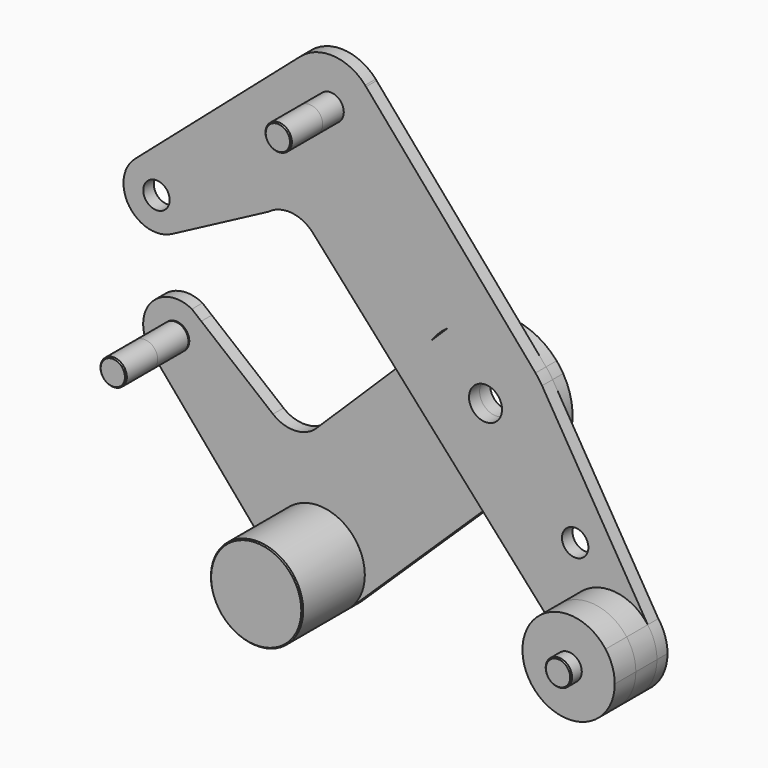
from build123d import *

# Parameters (mm, degrees)
F0_R     = 3.175
F0_R_2   = 3.9751
F2_DEPTH = 3.175
F3_DEPTH = 3.175
F4_DEPTH = 9.525
F6_SIZE  = 0.254


with BuildPart() as f2:
    # F0 (on Front) → F2 (new body)
    with BuildSketch(Plane.XZ):
        with BuildLine():
            ThreePointArc((-2.5106246191, 55.7574200842), (-18.2288215062, 45.6442992783), (-20.9178619526, 64.1404066335))
            Line((-20.9178619526, 64.1404066335), (-60.7601879257, 29.4702683695))
            ThreePointArc((-60.7601879257, 29.4702683695), (-52.2598777681, 30.7060785528), (-47.6121612589, 23.4824208343))
            ThreePointArc((-47.6121612589, 23.4824208343), (-48.751216127, 19.3854646423), (-51.8414652058, 16.4643592585))
            Line((-51.8414652058, 16.4643592585), (-28.6478088266, 28.7193992168))
            ThreePointArc((-28.6478088266, 28.7193992168), (-23.0655879888, 30.338278653), (-17.873526738, 27.7259118948))
            Line((-17.873526738, 27.7259118948), (1.9079331387, 5.6404648573))
            Line((1.9079331387, 5.6404648573), (10.7353477508, 14.3232909653))
            ThreePointArc((10.7353477508, 14.3232909653), (12.5449977515, 16.4472846117), (14.6985856273, 18.2216130469))
            ThreePointArc((14.6985856273, 18.2216130469), (25.7261792861, 20.8718790141), (35.7079737596, 15.487131045))
            Line((35.7079737596, 15.487131045), (-5.0924202882, 62.8788483026))
            ThreePointArc((-5.0924202882, 62.8788483026), (-3.1759932394, 59.5449129471), (-2.5106246191, 55.7574200842))
        make_face()
        with BuildLine():
            ThreePointArc((-47.6121612589, 23.4824208343), (-52.2598777681, 30.7060785528), (-60.7601879257, 29.4702683695))
            ThreePointArc((-60.7601879257, 29.4702683695), (-62.0958561284, 18.9934076932), (-51.8414652058, 16.4643592585))
            ThreePointArc((-51.8414652058, 16.4643592585), (-48.751216127, 19.3854646423), (-47.6121612589, 23.4824208343))
        make_face()
        with Locations((-55.5496612589, 23.4824208343)):
            Circle(F0_R, mode=Mode.SUBTRACT)
        with BuildLine():
            Line((-5.0924202882, 62.8788483026), (-5.3127557425, 63.1347790551))
            ThreePointArc((-5.3127557425, 63.1347790551), (-12.9084928507, 66.8469177142), (-20.9178619526, 64.1404066335))
            ThreePointArc((-20.9178619526, 64.1404066335), (-18.2288215062, 45.6442992783), (-2.5106246191, 55.7574200842))
            ThreePointArc((-2.5106246191, 55.7574200842), (-3.1759932394, 59.5449129471), (-5.0924202882, 62.8788483026))
        make_face()
        with Locations((-13.6231246191, 55.7574200842)):
            Circle(F0_R, mode=Mode.SUBTRACT)
        with BuildLine():
            ThreePointArc((37.2888219021, 13.2991536525), (36.5449865014, 14.4268033973), (35.7079737596, 15.487131045))
            ThreePointArc((35.7079737596, 15.487131045), (25.7261792861, 20.8718790141), (14.6985856273, 18.2216130469))
            Line((14.6985856273, 18.2216130469), (10.7353477508, 14.3232909653))
            ThreePointArc((10.7353477508, 14.3232909653), (7.8274736068, 4.2350553488), (11.8520761369, -5.4618928498))
            ThreePointArc((11.8520761369, -5.4618928498), (23.1117421056, -10.7352658082), (34.718293483, -6.2769583705))
            ThreePointArc((34.718293483, -6.2769583705), (38.2938852735, -1.0646535641), (39.5522467868, 5.1296586938))
            ThreePointArc((39.5522467868, 5.1296586938), (38.9759294091, 9.3682828836), (37.2888219021, 13.2991536525))
        make_face()
        with Locations((23.6772467868, 5.1296586938)):
            Circle(F0_R_2, mode=Mode.SUBTRACT)
        with BuildLine():
            Line((22.861570702, -17.7536858036), (34.718293483, -6.2769583705))
            ThreePointArc((34.718293483, -6.2769583705), (23.1117421056, -10.7352658082), (11.8520761369, -5.4618928498))
            Line((11.8520761369, -5.4618928498), (12.3431713564, -6.0101869358))
            Line((12.3431713564, -6.0101869358), (22.861570702, -17.7536858036))
        make_face()
        with BuildLine():
            ThreePointArc((11.8520761369, -5.4618928498), (7.8274736068, 4.2350553488), (10.7353477508, 14.3232909653))
            Line((10.7353477508, 14.3232909653), (1.9079331387, 5.6404648573))
            Line((1.9079331387, 5.6404648573), (11.8520761369, -5.4618928498))
        make_face()
        with BuildLine():
            Line((62.7313325952, -29.0917955033), (37.2888219021, 13.2991536525))
            ThreePointArc((37.2888219021, 13.2991536525), (38.9759294091, 9.3682828836), (39.5522467868, 5.1296586938))
            ThreePointArc((39.5522467868, 5.1296586938), (38.2938852735, -1.0646535641), (34.718293483, -6.2769583705))
            Line((34.718293483, -6.2769583705), (22.861570702, -17.7536858036))
            Line((22.861570702, -17.7536858036), (44.9044808209, -42.3639788264))
            ThreePointArc((44.9044808209, -42.3639788264), (47.1985006827, -26.8368729907), (62.7313325952, -29.0917955033))
        make_face()
        with Locations((45.2562570572, -17.3768736422)):
            Circle(F0_R, mode=Mode.SUBTRACT)
        with BuildLine():
            ThreePointArc((64.9471133741, -35.7503271246), (64.3786270453, -32.2415621064), (62.7313325952, -29.0917955033))
            ThreePointArc((62.7313325952, -29.0917955033), (47.1985006827, -26.8368729907), (44.9044808209, -42.3639788264))
            ThreePointArc((44.9044808209, -42.3639788264), (57.3168223176, -46.3031408311), (64.9471133741, -35.7503271246))
        make_face()
        with Locations((53.8346133741, -35.7503271246)):
            Circle(F0_R, mode=Mode.SUBTRACT)
    extrude(amount=F2_DEPTH)


with BuildPart() as f3:
    # F0 (on Front) → F3 (new body)
    with BuildSketch(Plane.XZ):
        with BuildLine():
            ThreePointArc((-45.4204246014, -6.9679266385), (-45.9057292748, -4.2350360326), (-47.3022995151, -1.8363273688))
            Line((-47.3022995151, -1.8363273688), (-49.556358528, 0))
            ThreePointArc((-49.556358528, 0), (-59.6263320396, -2.0985350504), (-59.1691962507, -12.3746842684))
            ThreePointArc((-59.1691962507, -12.3746842684), (-50.4530203401, -14.3547688247), (-45.4204246014, -6.9679266385))
        make_face()
        with Locations((-53.3579246014, -6.9679266385)):
            Circle(F0_R, mode=Mode.SUBTRACT)
        with BuildLine():
            ThreePointArc((-27.2982812561, -49.8464654343), (-19.3510928488, -53.7472997705), (-11.0753700137, -50.6029836833))
            ThreePointArc((-11.0753700137, -50.6029836833), (-8.5938372884, -46.9640376986), (-7.7209494347, -42.6468627726))
            ThreePointArc((-7.7209494347, -42.6468627726), (-22.6689554402, -32.2172630711), (-27.2982812561, -49.8464654343))
        make_face()
        with Locations((-18.8334494347, -42.6468627726)):
            Circle(F0_R, mode=Mode.SUBTRACT)
        with BuildLine():
            Line((12.3431713564, -6.0101869358), (11.8520761369, -5.4618928498))
            Line((11.8520761369, -5.4618928498), (1.9079331387, 5.6404648573))
            Line((1.9079331387, 5.6404648573), (-19.9936484697, -15.9023801261))
            ThreePointArc((-19.9936484697, -15.9023801261), (-25.0150598586, -17.6888874259), (-30.0364712475, -15.9023801261))
            Line((-30.0364712475, -15.9023801261), (-47.3022995151, -1.8363273688))
            ThreePointArc((-47.3022995151, -1.8363273688), (-45.9057292748, -4.2350360326), (-45.4204246014, -6.9679266385))
            ThreePointArc((-45.4204246014, -6.9679266385), (-50.4530203401, -14.3547688247), (-59.1691962507, -12.3746842684))
            Line((-59.1691962507, -12.3746842684), (-27.2982812561, -49.8464654343))
            ThreePointArc((-27.2982812561, -49.8464654343), (-22.6689554402, -32.2172630711), (-7.7209494347, -42.6468627726))
            ThreePointArc((-7.7209494347, -42.6468627726), (-8.5938372884, -46.9640376986), (-11.0753700137, -50.6029836833))
            Line((-11.0753700137, -50.6029836833), (22.861570702, -17.7536858036))
            Line((22.861570702, -17.7536858036), (12.3431713564, -6.0101869358))
        make_face()
        with BuildLine():
            Line((22.861570702, -17.7536858036), (34.718293483, -6.2769583705))
            ThreePointArc((34.718293483, -6.2769583705), (23.1117421056, -10.7352658082), (11.8520761369, -5.4618928498))
            Line((11.8520761369, -5.4618928498), (12.3431713564, -6.0101869358))
            Line((12.3431713564, -6.0101869358), (22.861570702, -17.7536858036))
        make_face()
        with BuildLine():
            ThreePointArc((37.2888219021, 13.2991536525), (36.5449865014, 14.4268033973), (35.7079737596, 15.487131045))
            ThreePointArc((35.7079737596, 15.487131045), (25.7261792861, 20.8718790141), (14.6985856273, 18.2216130469))
            Line((14.6985856273, 18.2216130469), (10.7353477508, 14.3232909653))
            ThreePointArc((10.7353477508, 14.3232909653), (7.8274736068, 4.2350553488), (11.8520761369, -5.4618928498))
            ThreePointArc((11.8520761369, -5.4618928498), (23.1117421056, -10.7352658082), (34.718293483, -6.2769583705))
            ThreePointArc((34.718293483, -6.2769583705), (38.2938852735, -1.0646535641), (39.5522467868, 5.1296586938))
            ThreePointArc((39.5522467868, 5.1296586938), (38.9759294091, 9.3682828836), (37.2888219021, 13.2991536525))
        make_face()
        with Locations((23.6772467868, 5.1296586938)):
            Circle(F0_R_2, mode=Mode.SUBTRACT)
        with BuildLine():
            ThreePointArc((11.8520761369, -5.4618928498), (7.8274736068, 4.2350553488), (10.7353477508, 14.3232909653))
            Line((10.7353477508, 14.3232909653), (1.9079331387, 5.6404648573))
            Line((1.9079331387, 5.6404648573), (11.8520761369, -5.4618928498))
        make_face()
    extrude(amount=-F3_DEPTH)


with BuildPart() as f4:
    # F0 (on Front) → F4 (new body, through all)
    with BuildSketch(Plane.XZ):
        with BuildLine():
            ThreePointArc((-27.2982812561, -49.8464654343), (-19.3510928488, -53.7472997705), (-11.0753700137, -50.6029836833))
            ThreePointArc((-11.0753700137, -50.6029836833), (-8.5938372884, -46.9640376986), (-7.7209494347, -42.6468627726))
            ThreePointArc((-7.7209494347, -42.6468627726), (-22.6689554402, -32.2172630711), (-27.2982812561, -49.8464654343))
        make_face()
        with Locations((-18.8334494347, -42.6468627726)):
            Circle(F0_R, mode=Mode.SUBTRACT)
        with BuildLine():
            ThreePointArc((64.9471133741, -35.7503271246), (64.3786270453, -32.2415621064), (62.7313325952, -29.0917955033))
            ThreePointArc((62.7313325952, -29.0917955033), (47.1985006827, -26.8368729907), (44.9044808209, -42.3639788264))
            ThreePointArc((44.9044808209, -42.3639788264), (57.3168223176, -46.3031408311), (64.9471133741, -35.7503271246))
        make_face()
        with Locations((53.8346133741, -35.7503271246)):
            Circle(F0_R, mode=Mode.SUBTRACT)
        with Locations((53.8346133741, -35.7503271246)):
            Circle(F0_R)
        with Locations((-18.8334494347, -42.6468627726)):
            Circle(F0_R)
        with Locations((-53.3579246014, -6.9679266385)):
            Circle(F0_R)
        with Locations((-13.6231246191, 55.7574200842)):
            Circle(F0_R)
    extrude(amount=F4_DEPTH)

    # F5: cut F2, F3
    add(f2.part, mode=Mode.SUBTRACT)
    add(f3.part, mode=Mode.SUBTRACT)

    # F6
    f6_edges = [f4.edges().sort_by_distance(p)[0] for p in [
        (50.659613, 0, -35.750327),
        (-16.798125, 0, 55.75742),
        (-56.532925, 0, -6.967927),
        (-26.591529, 0, -34.690742),
    ]]
    chamfer(f6_edges, length=F6_SIZE)

    # F7: F4 across plane


with BuildPart() as f4_1:
    add(f4.part)
    add(f4.part.mirror(Plane.XZ.offset(9.525)))


solid = Compound([f2.part, f3.part, f4_1.part])
